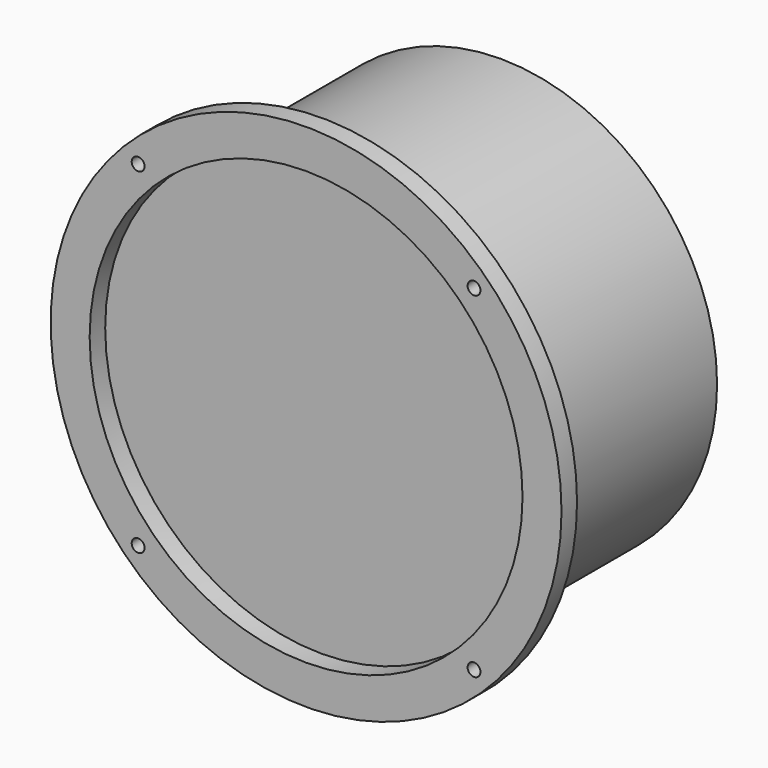
from build123d import *

# Parameters (mm, degrees)
F0_R     = 85.5
F0_R_2   = 79.5
F0_R_3   = 72.445
F1_DEPTH = 6.5
F3_DEPTH = 74.91
F4_D     = 4.3
F4_DEPTH = 6.5
F5_D     = 4.3
F5_DEPTH = 6.5
F6_D     = 4.3
F6_DEPTH = 6.5
F7_D     = 4.3
F7_DEPTH = 6.5


with BuildPart() as f1:
    # F0 (on Front) → F1 (new body)
    with BuildSketch(Plane.XZ):
        Circle(F0_R)
        Circle(F0_R_2, mode=Mode.SUBTRACT)
        Circle(F0_R_2)
        Circle(F0_R_3, mode=Mode.SUBTRACT)
    extrude(amount=F1_DEPTH)

    # F4
    with Locations(Plane.XZ.offset(6.5)):
        with Locations((-56.214989, 56.214989)):
            Hole(F4_D / 2, depth=F4_DEPTH)

    # F5
    with Locations(Plane.XZ.offset(6.5)):
        with Locations((56.214989, 56.214989)):
            Hole(F5_D / 2, depth=F5_DEPTH)

    # F6
    with Locations(Plane.XZ.offset(6.5)):
        with Locations((56.214989, -56.214989)):
            Hole(F6_D / 2, depth=F6_DEPTH)

    # F7
    with Locations(Plane.XZ.offset(6.5)):
        with Locations((-56.214989, -56.214989)):
            Hole(F7_D / 2, depth=F7_DEPTH)


with BuildPart() as f3:
    # F0 (on Front) → F3 (new body)
    with BuildSketch(Plane.XZ):
        Circle(F0_R_3)
    extrude(amount=-F3_DEPTH)


solid = Compound([f1.part, f3.part])
